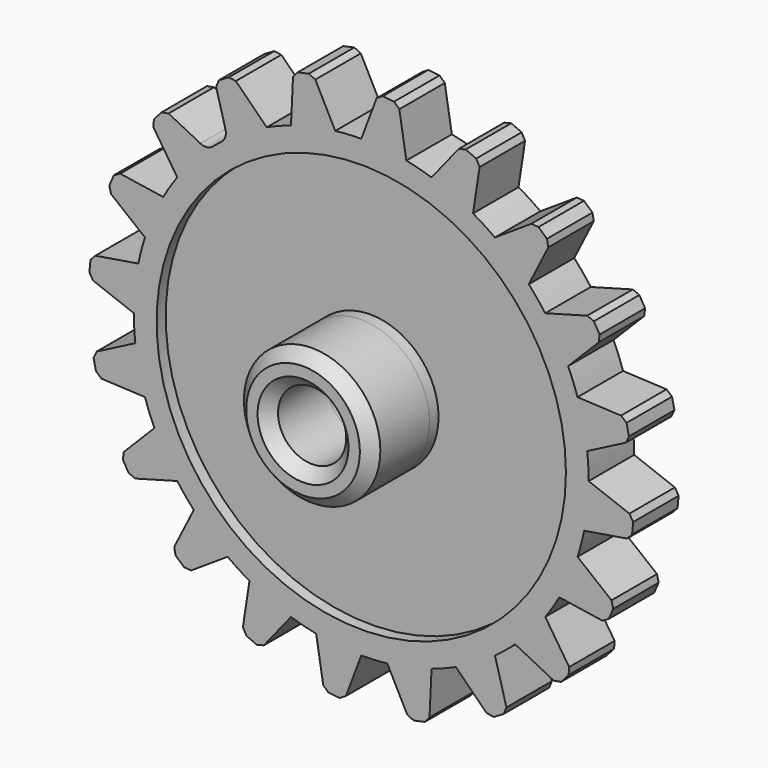
from build123d import *

# Parameters (mm, degrees)
F1_DEPTH  = 25
F2_R      = 5
F3_R      = 5
F4_R      = 30
F4_R_2    = 15
F5_DEPTH  = 32
F6_DEPTH  = 25.001
F7_SIZE   = 5
F8_SIZE   = 5
F4_R_3    = 90
F9_DEPTH  = 5
F10_SIZE2 = 2
F10_SIZE  = 2


with BuildPart() as f1:
    # F0 (on Front) → F1 (new body)
    with BuildSketch(Plane.XZ):
        with BuildLine():
            ThreePointArc((98.0144936682, -19.8282382213), (99.5023853152, -9.9636999447), (100, 0))
            ThreePointArc((100, 0), (99.9999998078, 0.006199626), (99.9999992313, 0.0123992521))
            ThreePointArc((99.9999992313, 0.0123992521), (99.835656814, 5.7307616008), (99.3445854734, 11.4303690715))
            ThreePointArc((99.3445854734, 11.4303690715), (97.7100255855, 21.2779439815), (95.1018193188, 30.9134915894))
            ThreePointArc((95.1018193188, 30.9134915894), (93.1784492462, 36.3011927639), (90.9501370781, 41.5700921996))
            ThreePointArc((90.9501370781, 41.5700921996), (86.3525102448, 50.4305857037), (80.8944107181, 58.788555983))
            ThreePointArc((80.8944107181, 58.788555983), (77.4002858537, 63.3182102539), (73.6528555786, 67.6406450672))
            ThreePointArc((73.6528555786, 67.6406450672), (66.5422095481, 74.6467303267), (58.7684935718, 80.9089869131))
            ThreePointArc((58.7684935718, 80.9089869131), (54.0456432024, 84.1372001604), (49.1459194055, 87.0900603156))
            ThreePointArc((49.1459194055, 87.0900603156), (40.2182937539, 91.5559328909), (30.8899068105, 95.109482478))
            ThreePointArc((30.8899068105, 95.109482478), (25.4006364363, 96.7202546969), (19.8282382213, 98.0144936682))
            ThreePointArc((19.8282382213, 98.0144936682), (9.9575311498, 99.5030028361), (-0.0123992521, 99.9999992313))
            ThreePointArc((-0.0123992521, 99.9999992313), (-5.7307616008, 99.835656814), (-11.4303690715, 99.3445854734))
            ThreePointArc((-11.4303690715, 99.3445854734), (-21.2779439815, 97.7100255855), (-30.9134915894, 95.1018193188))
            ThreePointArc((-30.9134915894, 95.1018193188), (-36.3011927639, 93.1784492462), (-41.5700921996, 90.9501370781))
            ThreePointArc((-41.5700921996, 90.9501370781), (-50.4305857037, 86.3525102448), (-58.788555983, 80.8944107181))
            ThreePointArc((-58.788555983, 80.8944107181), (-63.3182102539, 77.4002858537), (-67.6406450672, 73.6528555786))
            ThreePointArc((-67.6406450672, 73.6528555786), (-74.6467303267, 66.5422095481), (-80.9089869131, 58.7684935718))
            ThreePointArc((-80.9089869131, 58.7684935718), (-84.1372001604, 54.0456432024), (-87.0900603156, 49.1459194055))
            ThreePointArc((-87.0900603156, 49.1459194055), (-91.5559328909, 40.2182937539), (-95.109482478, 30.8899068105))
            ThreePointArc((-95.109482478, 30.8899068105), (-96.7202546969, 25.4006364363), (-98.0144936682, 19.8282382213))
            ThreePointArc((-98.0144936682, 19.8282382213), (-99.5030028361, 9.9575311498), (-99.9999992313, -0.0123992521))
            ThreePointArc((-99.9999992313, -0.0123992521), (-99.835656814, -5.7307616008), (-99.3445854734, -11.4303690715))
            ThreePointArc((-99.3445854734, -11.4303690715), (-97.7100255855, -21.2779439815), (-95.1018193188, -30.9134915894))
            ThreePointArc((-95.1018193188, -30.9134915894), (-93.1784492462, -36.3011927639), (-90.9501370781, -41.5700921996))
            ThreePointArc((-90.9501370781, -41.5700921996), (-86.3525102448, -50.4305857037), (-80.8944107181, -58.788555983))
            ThreePointArc((-80.8944107181, -58.788555983), (-77.4002858537, -63.3182102539), (-73.6528555786, -67.6406450672))
            ThreePointArc((-73.6528555786, -67.6406450672), (-66.5422095481, -74.6467303267), (-58.7684935718, -80.9089869131))
            ThreePointArc((-58.7684935718, -80.9089869131), (-54.0456432024, -84.1372001604), (-49.1459194055, -87.0900603156))
            ThreePointArc((-49.1459194055, -87.0900603156), (-40.2182937539, -91.5559328909), (-30.8899068105, -95.109482478))
            ThreePointArc((-30.8899068105, -95.109482478), (-25.4006364363, -96.7202546969), (-19.8282382213, -98.0144936682))
            ThreePointArc((-19.8282382213, -98.0144936682), (-9.9575311498, -99.5030028361), (0.0123992521, -99.9999992313))
            ThreePointArc((0.0123992521, -99.9999992313), (5.7307616008, -99.835656814), (11.4303690715, -99.3445854734))
            ThreePointArc((11.4303690715, -99.3445854734), (21.2779439815, -97.7100255855), (30.9134915894, -95.1018193188))
            ThreePointArc((30.9134915894, -95.1018193188), (36.3011927639, -93.1784492462), (41.5700921996, -90.9501370781))
            ThreePointArc((41.5700921996, -90.9501370781), (50.4305857037, -86.3525102448), (58.788555983, -80.8944107181))
            ThreePointArc((58.788555983, -80.8944107181), (63.3182102539, -77.4002858537), (67.6406450672, -73.6528555786))
            ThreePointArc((67.6406450672, -73.6528555786), (74.6467303267, -66.5422095481), (80.9089869131, -58.7684935718))
            ThreePointArc((80.9089869131, -58.7684935718), (84.1372001604, -54.0456432024), (87.0900603156, -49.1459194055))
            ThreePointArc((87.0900603156, -49.1459194055), (91.5559328909, -40.2182937539), (95.109482478, -30.8899068105))
            ThreePointArc((95.109482478, -30.8899068105), (96.7202546969, -25.4006364363), (98.0144936682, -19.8282382213))
        make_face()
        with BuildLine():
            ThreePointArc((95.1018193188, 30.9134915894), (97.7100255855, 21.2779439815), (99.3445854734, 11.4303690715))
            Line((99.3445854734, 11.4303690715), (118.1270663435, 21.1186220451))
            Line((118.1270663435, 21.1186220451), (116.2120513852, 29.9125243478))
            Line((116.2120513852, 29.9125243478), (95.1018193188, 30.9134915894))
        make_face()
        with BuildLine():
            Line((64.360000029, -101.2807503738), (58.788555983, -80.8944107181))
            ThreePointArc((58.788555983, -80.8944107181), (50.4305857037, -86.3525102448), (41.5700921996, -90.9501370781))
            Line((41.5700921996, -90.9501370781), (56.5882741069, -105.8195030871))
            Line((56.5882741069, -105.8195030871), (64.360000029, -101.2807503738))
        make_face()
        with BuildLine():
            Line((-7.4629976294, -119.76770711), (0.0123992521, -99.9999992313))
            ThreePointArc((0.0123992521, -99.9999992313), (-9.9575311498, -99.5030028361), (-19.8282382213, -98.0144936682))
            Line((-19.8282382213, -98.0144936682), (-16.4182678847, -118.8715293065))
            Line((-16.4182678847, -118.8715293065), (-7.4629976294, -119.76770711))
        make_face()
        with BuildLine():
            Line((29.9125243478, -116.2120513852), (30.9134915894, -95.1018193188))
            ThreePointArc((30.9134915894, -95.1018193188), (21.2779439815, -97.7100255855), (11.4303690715, -99.3445854734))
            Line((11.4303690715, -99.3445854734), (21.1186220451, -118.1270663435))
            Line((21.1186220451, -118.1270663435), (29.9125243478, -116.2120513852))
        make_face()
        with BuildLine():
            Line((92.5074704848, -76.4353838513), (80.9089869131, -58.7684935718))
            ThreePointArc((80.9089869131, -58.7684935718), (74.6467303267, -66.5422095481), (67.6406450672, -73.6528555786))
            Line((67.6406450672, -73.6528555786), (86.5186716255, -83.1535895807))
            Line((86.5186716255, -83.1535895807), (92.5074704848, -76.4353838513))
        make_face()
        with BuildLine():
            ThreePointArc((80.8944107181, 58.788555983), (86.3525102448, 50.4305857037), (90.9501370781, 41.5700921996))
            Line((90.9501370781, 41.5700921996), (105.8195030871, 56.5882741069))
            Line((105.8195030871, 56.5882741069), (101.2807503738, 64.360000029))
            Line((101.2807503738, 64.360000029), (80.8944107181, 58.788555983))
        make_face()
        with BuildLine():
            ThreePointArc((58.7684935718, 80.9089869131), (66.5422095481, 74.6467303267), (73.6528555786, 67.6406450672))
            Line((73.6528555786, 67.6406450672), (83.1535895807, 86.5186716255))
            Line((83.1535895807, 86.5186716255), (76.4353838513, 92.5074704848))
            Line((76.4353838513, 92.5074704848), (58.7684935718, 80.9089869131))
        make_face()
        with BuildLine():
            ThreePointArc((30.8899068105, 95.109482478), (40.2182937539, 91.5559328909), (49.1459194055, 87.0900603156))
            Line((49.1459194055, 87.0900603157), (52.348023361, 107.9800187544))
            Line((52.348023361, 107.9800187544), (44.1079894009, 111.5996651922))
            Line((44.1079894009, 111.5996651922), (30.8899068105, 95.109482478))
        make_face()
        with BuildLine():
            ThreePointArc((-0.0123992521, 99.9999992313), (9.9575311498, 99.5030028361), (19.8282382213, 98.0144936682))
            Line((19.8282382213, 98.0144936682), (16.4182678847, 118.8715293065))
            Line((16.4182678847, 118.8715293065), (7.4629976294, 119.76770711))
            Line((7.4629976294, 119.76770711), (-0.0123992521, 99.9999992313))
        make_face()
        with BuildLine():
            ThreePointArc((-30.9134915894, 95.1018193188), (-21.2779439815, 97.7100255855), (-11.4303690715, 99.3445854734))
            Line((-11.4303690715, 99.3445854734), (-21.1186220451, 118.1270663435))
            Line((-21.1186220451, 118.1270663435), (-29.9125243478, 116.2120513852))
            Line((-29.9125243478, 116.2120513852), (-30.9134915894, 95.1018193188))
        make_face()
        with BuildLine():
            ThreePointArc((-58.788555983, 80.8944107181), (-50.4305857037, 86.3525102448), (-41.5700921996, 90.9501370781))
            Line((-41.5700921996, 90.9501370781), (-56.5882741069, 105.8195030871))
            Line((-56.5882741069, 105.8195030871), (-64.360000029, 101.2807503738))
            Line((-64.360000029, 101.2807503738), (-58.788555983, 80.8944107181))
        make_face()
        with BuildLine():
            ThreePointArc((-80.9089869131, 58.7684935718), (-74.6467303267, 66.5422095481), (-67.6406450672, 73.6528555786))
            Line((-67.6406450672, 73.6528555786), (-86.5186716255, 83.1535895807))
            Line((-86.5186716255, 83.1535895807), (-92.5074704848, 76.4353838513))
            Line((-92.5074704848, 76.4353838513), (-80.9089869131, 58.7684935718))
        make_face()
        with BuildLine():
            ThreePointArc((-95.109482478, 30.8899068105), (-91.5559328909, 40.2182937539), (-87.0900603156, 49.1459194055))
            Line((-87.0900603157, 49.1459194055), (-107.9800187544, 52.348023361))
            Line((-107.9800187544, 52.348023361), (-111.5996651922, 44.1079894009))
            Line((-111.5996651922, 44.1079894009), (-95.109482478, 30.8899068105))
        make_face()
        with BuildLine():
            ThreePointArc((-99.9999992313, -0.0123992521), (-99.5030028361, 9.9575311498), (-98.0144936682, 19.8282382213))
            Line((-98.0144936682, 19.8282382213), (-118.8715293065, 16.4182678847))
            Line((-118.8715293065, 16.4182678847), (-119.76770711, 7.4629976294))
            Line((-119.76770711, 7.4629976294), (-99.9999992313, -0.0123992521))
        make_face()
        with BuildLine():
            Line((-116.2120513852, -29.9125243478), (-95.1018193188, -30.9134915894))
            ThreePointArc((-95.1018193188, -30.9134915894), (-97.7100255855, -21.2779439815), (-99.3445854734, -11.4303690715))
            Line((-99.3445854734, -11.4303690715), (-118.1270663435, -21.1186220451))
            Line((-118.1270663435, -21.1186220451), (-116.2120513852, -29.9125243478))
        make_face()
        with BuildLine():
            Line((-101.2807503738, -64.360000029), (-80.8944107181, -58.788555983))
            ThreePointArc((-80.8944107181, -58.788555983), (-86.3525102448, -50.4305857037), (-90.9501370781, -41.5700921996))
            Line((-90.9501370781, -41.5700921996), (-105.8195030871, -56.5882741069))
            Line((-105.8195030871, -56.5882741069), (-101.2807503738, -64.360000029))
        make_face()
        with BuildLine():
            Line((-76.4353838513, -92.5074704848), (-58.7684935718, -80.9089869131))
            ThreePointArc((-58.7684935718, -80.9089869131), (-66.5422095481, -74.6467303267), (-73.6528555786, -67.6406450672))
            Line((-73.6528555786, -67.6406450672), (-83.1535895807, -86.5186716255))
            Line((-83.1535895807, -86.5186716255), (-76.4353838513, -92.5074704848))
        make_face()
        with BuildLine():
            Line((-44.1079894009, -111.5996651922), (-30.8899068105, -95.109482478))
            ThreePointArc((-30.8899068105, -95.109482478), (-40.2182937539, -91.5559328909), (-49.1459194055, -87.0900603156))
            Line((-49.1459194055, -87.0900603157), (-52.348023361, -107.9800187544))
            Line((-52.348023361, -107.9800187544), (-44.1079894009, -111.5996651922))
        make_face()
        with BuildLine():
            Line((111.5996651922, -44.1079894009), (95.109482478, -30.8899068105))
            ThreePointArc((95.109482478, -30.8899068105), (91.5559328909, -40.2182937539), (87.0900603156, -49.1459194055))
            Line((87.0900603157, -49.1459194055), (107.9800187544, -52.348023361))
            Line((107.9800187544, -52.348023361), (111.5996651922, -44.1079894009))
        make_face()
        with BuildLine():
            ThreePointArc((99.9999992313, 0.0123992521), (99.9999998078, 0.006199626), (100, 0))
            ThreePointArc((100, 0), (99.5023853152, -9.9636999447), (98.0144936682, -19.8282382213))
            Line((98.0144936682, -19.8282382213), (118.8715293065, -16.4182678847))
            Line((118.8715293065, -16.4182678847), (119.76770711, -7.4629976294))
            Line((119.76770711, -7.4629976294), (99.9999992313, 0.0123992521))
        make_face()
    extrude(amount=F1_DEPTH)

    # F2
    f2_edges = [f1.edges().sort_by_distance(p)[0] for p in [
        (-67.640645, -12.5, 73.652856),
    ]]
    fillet(f2_edges, radius=F2_R)

    # F3
    f3_edges = [f1.edges().sort_by_distance(p)[0] for p in [
        (-58.788556, -12.5, 80.894411),
    ]]
    fillet(f3_edges, radius=F3_R)

    # F4 (on face) → F5 (join)
    with BuildSketch(Plane.XZ.offset(25)):
        Circle(F4_R)
        Circle(F4_R_2, mode=Mode.SUBTRACT)
    extrude(amount=F5_DEPTH)

    # F6 (cut, through all): a face of the model
    f6_faces = [f1.faces().sort_by_distance(p)[0] for p in [
        (0, -25, 0),
    ]]
    extrude(f6_faces, amount=-F6_DEPTH, mode=Mode.SUBTRACT)

    # F7
    f7_edges = [f1.edges().sort_by_distance(p)[0] for p in [
        (-30, -57, 0),
    ]]
    chamfer(f7_edges, length=F7_SIZE)

    # F8
    f8_edges = [f1.edges().sort_by_distance(p)[0] for p in [
        (-15, -57, 0),
    ]]
    chamfer(f8_edges, length=F8_SIZE)

    # F4 (on face) → F9 (cut)
    with BuildSketch(Plane.XZ.offset(25)):
        Circle(F4_R_3)
        Circle(F4_R, mode=Mode.SUBTRACT)
    extrude(amount=-F9_DEPTH, mode=Mode.SUBTRACT)

    # F10
    f10_edges = [f1.edges().sort_by_distance(p)[0] for p in [
        (-105.819503, -12.5, -56.588274),
        (-101.28075, -12.5, -64.36),
        (-83.15359, -12.5, -86.518672),
        (-76.435384, -12.5, -92.50747),
        (-52.348023, -12.5, -107.980019),
        (-44.107989, -12.5, -111.599665),
        (-16.418268, -12.5, -118.871529),
        (-7.462998, -12.5, -119.767707),
        (21.118622, -12.5, -118.127066),
        (29.912524, -12.5, -116.212051),
        (56.588274, -12.5, -105.819503),
        (64.36, -12.5, -101.28075),
        (86.518672, -12.5, -83.15359),
        (92.50747, -12.5, -76.435384),
        (107.980019, -12.5, -52.348023),
        (111.599665, -12.5, -44.107989),
        (118.871529, -12.5, -16.418268),
        (119.767707, -12.5, -7.462998),
        (118.127066, -12.5, 21.118622),
        (116.212051, -12.5, 29.912524),
        (105.819503, -12.5, 56.588274),
        (101.28075, -12.5, 64.36),
        (83.15359, -12.5, 86.518672),
        (76.435384, -12.5, 92.50747),
        (52.348023, -12.5, 107.980019),
        (44.107989, -12.5, 111.599665),
        (16.418268, -12.5, 118.871529),
        (7.462998, -12.5, 119.767707),
        (-21.118622, -12.5, 118.127066),
        (-29.912524, -12.5, 116.212051),
        (-56.588274, -12.5, 105.819503),
        (-64.36, -12.5, 101.28075),
        (-86.518672, -12.5, 83.15359),
        (-92.50747, -12.5, 76.435384),
        (-107.980019, -12.5, 52.348023),
        (-111.599665, -12.5, 44.107989),
        (-118.871529, -12.5, 16.418268),
        (-119.767707, -12.5, 7.462998),
        (-118.127066, -12.5, -21.118622),
        (-116.212051, -12.5, -29.912524),
    ]]
    chamfer(f10_edges, length=F10_SIZE, length2=F10_SIZE2)


solid = f1.part
